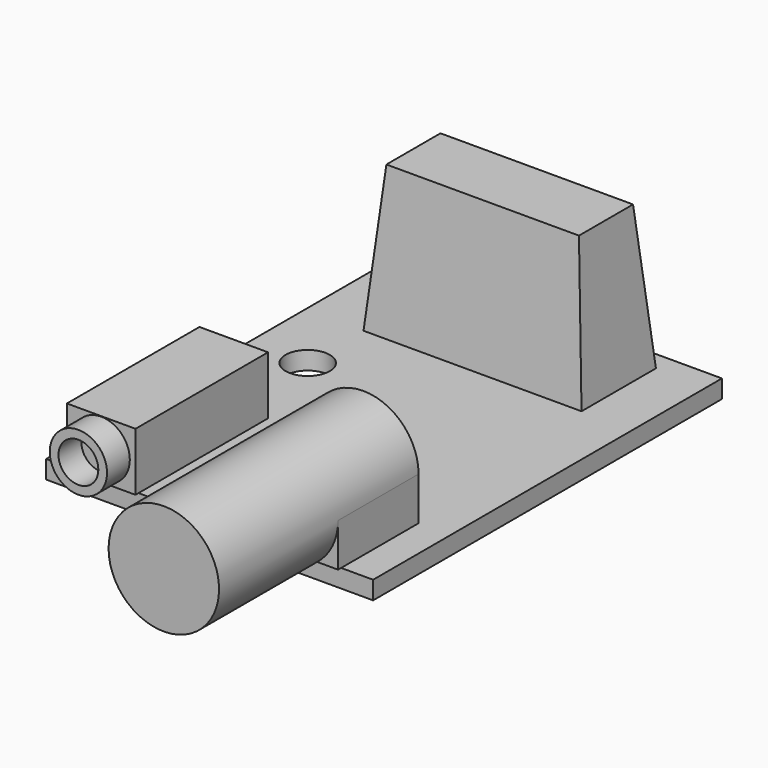
from build123d import *

# Parameters (mm, degrees)
SKETCH_W      = 28.575
SKETCH_H      = 38.1
SKETCH_R      = 1.9304
PAD_DEPTH     = 1.5875
SKETCH001_W   = 19.05
SKETCH001_H   = 8.128
PAD001_DEPTH  = 12.7
PAD001_TAPER  = 5
SKETCH002_W   = 5.9944
SKETCH002_H   = 14.478
PAD002_DEPTH  = 5.08
SKETCH003_R   = 2.5019
SKETCH003_R_2 = 1.7399
PAD003_DEPTH  = 2.4892
SKETCH004_W   = 9.652
SKETCH004_H   = 8.7884
PAD004_DEPTH  = 3.7846
SKETCH005_R   = 4.826
PAD005_DEPTH  = 21.7932


with BuildPart() as part:
    # Sketch → Pad (new body)
    with BuildSketch(Plane.XY):
        with Locations((15.5575, 19.05)):
            Rectangle(SKETCH_W, SKETCH_H)
        with Locations((6.35, 22.225)):
            Circle(SKETCH_R, mode=Mode.SUBTRACT)
    extrude(amount=-PAD_DEPTH)

    # Sketch001 (on Face6 of Pad) → Pad001 (join)
    with BuildSketch(Plane.XY):
        with Locations((15.875, 32.385)):
            Rectangle(SKETCH001_W, SKETCH001_H)
    extrude(amount=PAD001_DEPTH, taper=PAD001_TAPER)

    # Sketch002 (on Face4 of Pad001) → Pad002 (join)
    with BuildSketch(Plane.XY):
        with Locations((6.35, 6.9088)):
            Rectangle(SKETCH002_W, SKETCH002_H)
    extrude(amount=PAD002_DEPTH)

    # Sketch003 (on Face16 of Pad002) → Pad003 (join)
    with BuildSketch(Plane.XZ.offset(0.3302)):
        with Locations((6.35, 2.54)):
            Circle(SKETCH003_R)
        with Locations((6.35, 2.54)):
            Circle(SKETCH003_R_2, mode=Mode.SUBTRACT)
    extrude(amount=PAD003_DEPTH)

    # Sketch004 (on Face4 of Pad003) → Pad004 (join)
    with BuildSketch(Plane.XY):
        with Locations((22.225, 4.064)):
            Rectangle(SKETCH004_W, SKETCH004_H)
    extrude(amount=PAD004_DEPTH)

    # Sketch005 (on Face10 of Pad004) → Pad005 (join)
    with BuildSketch(Plane(origin=(0, 8.4582, 0), x_dir=(-1, 0, 0), z_dir=(0, 1, 0))):
        with Locations((-22.225, 3.7846)):
            Circle(SKETCH005_R)
    extrude(amount=-PAD005_DEPTH)


with BuildPart() as part_1:
    # Body002 placement: moved
    add(part.part.moved(Location((1.27, 0.127, 0))))


solid = part_1.part
